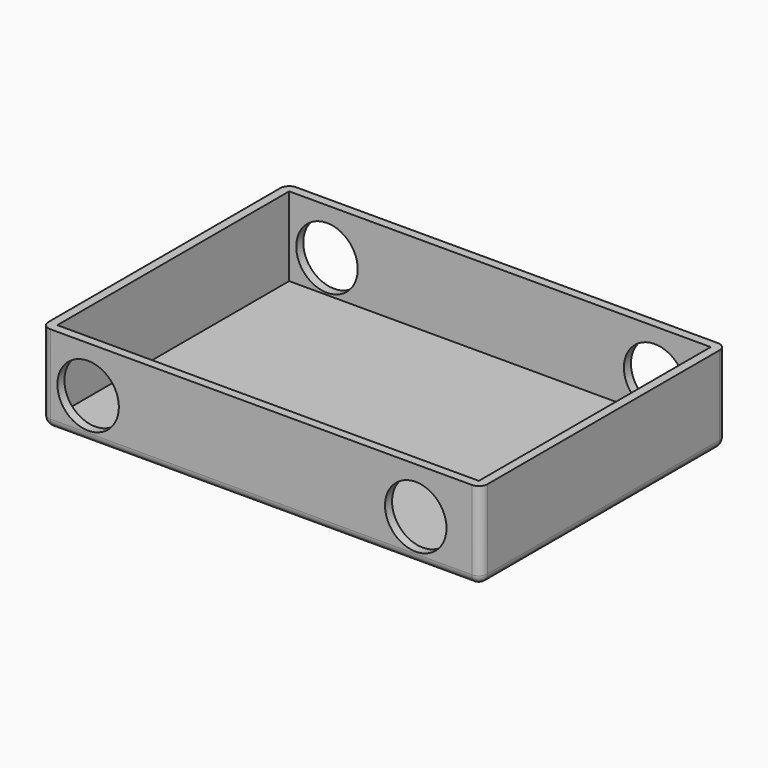
from build123d import *

# Parameters (mm, degrees)
F0_W     = 127
F0_H     = 88.9
F1_DEPTH = 25.4
F2_T     = -2.54
F3_R     = 8.89
F4_DEPTH = 1270
F5_R     = 2.54
F6_R     = 2.54


with BuildPart() as f1:
    # F0 (on Top) → F1 (new body)
    with BuildSketch(Plane.XY):
        with Locations((2.735384, 3.646639)):
            Rectangle(F0_W, F0_H)
    extrude(amount=F1_DEPTH)

    # F2
    f2_openings = [f1.faces().sort_by_distance(p)[0] for p in [
        (2.735384, 3.646639, 25.4),
    ]]
    offset(amount=F2_T, openings=f2_openings)

    # F3 (on face) → F4 (cut)
    with BuildSketch(Plane.XZ.offset(40.803361)):
        with Locations((-47.283076, 12.016155)):
            Circle(F3_R)
        with Locations((47.478464, 12.016155)):
            Circle(F3_R)
    extrude(amount=-F4_DEPTH, mode=Mode.SUBTRACT)

    # F5
    f5_edges = [f1.edges().sort_by_distance(p)[0] for p in [
        (66.235384, 3.646639, 0),
    ]]
    fillet(f5_edges, radius=F5_R)

    # F6
    f6_edges = [f1.edges().sort_by_distance(p)[0] for p in [
        (1.465384, -40.803361, 0),
        (66.235384, -40.803361, 13.97),
        (66.235384, 48.096639, 13.97),
        (1.465384, 48.096639, 0),
        (-60.764616, 3.646639, 0),
        (-60.764616, 48.096639, 12.7),
        (-60.764616, -40.803361, 12.7),
    ]]
    fillet(f6_edges, radius=F6_R)


solid = f1.part
